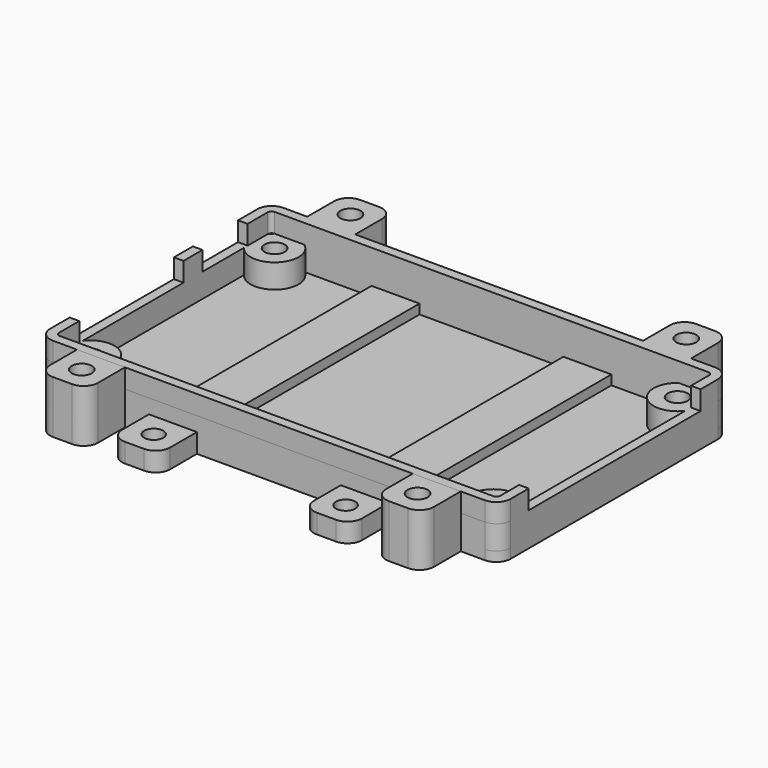
from build123d import *

# Parameters (mm, degrees)
EXTRUDE001_DEPTH  = 2
CYLINDER001_R     = 2.1
CYLINDER001_DEPTH = 11
BOX001_W          = 10
BOX001_H          = 10
BOX001_DEPTH      = 11
FILLET001_R       = 3
CYLINDER_R        = 2
CYLINDER_DEPTH    = 10
BOX_W             = 10
BOX_H             = 80
BOX_DEPTH         = 4
FILLET_R          = 3
SKETCH003_W       = 9.77459
SKETCH003_H       = 44.778202
SKETCH003_W_2     = 16.775318
SKETCH003_H_2     = 11.763574
SKETCH003_W_3     = 22.095015
SKETCH003_H_3     = 27.160165
EXTRUDE003_DEPTH  = 10
EXTRUDE002_DEPTH  = 4
SKETCH_R          = 2.1
EXTRUDE_DEPTH     = 5


with BuildPart() as extrude001:
    # Sketch001 → Extrude001 (new body)
    with BuildSketch(Plane.XY):
        with BuildLine():
            Line((-48, 26.999999), (-48, -26.999999))
            ThreePointArc((-48, -26.999999), (-47.12132, -29.12132), (-44.999999, -30))
            Line((-44.999999, -30), (45.000001, -30))
            ThreePointArc((45.000001, -30), (47.121321, -29.12132), (48, -27))
            Line((48, 27), (48, -27))
            ThreePointArc((48, 27), (47.121321, 29.12132), (45.000001, 30))
            Line((45.000001, 30), (-44.999999, 30))
            ThreePointArc((-44.999999, 30), (-47.12132, 29.12132), (-48, 26.999999))
        make_face()
    extrude(amount=EXTRUDE001_DEPTH)


with BuildPart() as insert_hole:
    # Cylinder001 → Cylinder001 (new body)
    with BuildSketch(Plane.XY):
        Circle(CYLINDER001_R)
    extrude(amount=CYLINDER001_DEPTH)


with BuildPart() as compound:
    # Box001 → Box001 (new body)
    with BuildSketch(Plane(origin=(-5, -5, 0), x_dir=(1, 0, 0), z_dir=(0, 0, 1))):
        with Locations((5, 5)):
            Rectangle(BOX001_W, BOX001_H)
    extrude(amount=BOX001_DEPTH)

    # Fillet001
    fillet001_edges = [compound.edges().sort_by_distance(p)[0] for p in [
        (-5, 5, 5.5),
        (5, 5, 5.5),
    ]]
    fillet(fillet001_edges, radius=FILLET001_R)

    # Cut001: cut insert hole
    add(insert_hole.part, mode=Mode.SUBTRACT)


with BuildPart() as compound_1:
    # Compound placement: moved
    add(compound.part.moved(Location((0, 35, 0))))


with BuildPart() as fusion001:
    # Part__Mirroring002: instance of Compound
    add(compound_1.part.mirror(Plane(origin=(0, 0, 0), x_dir=(1, 0, 0), z_dir=(0, 1, 0))))

    # Fusion001: union Compound
    add(compound_1.part)


with BuildPart() as fusion001_1:
    # Fusion001 placement: moved
    add(fusion001.part.moved(Location((35, 0, 0))))


with BuildPart() as part_mirroring003:
    # Part__Mirroring003: instance of Fusion001
    add(fusion001_1.part.mirror(Plane(origin=(0, 0, 0), x_dir=(0, -1, 0), z_dir=(1, 0, 0))))


with BuildPart() as insert_hole_fusion:
    # Fusion002 base: copy of Fusion001
    add(fusion001_1.part)

    # Fusion002: union Part__Mirroring003
    add(part_mirroring003.part)


with BuildPart() as bolt_hole:
    # Cylinder → Cylinder (new body)
    with BuildSketch(Plane(origin=(0, 35, 0), x_dir=(1, 0, 0), z_dir=(0, 0, 1))):
        Circle(CYLINDER_R)
    extrude(amount=CYLINDER_DEPTH)


with BuildPart() as hole_fusion:
    # Part__Mirroring: instance of bolt hole
    add(bolt_hole.part.mirror(Plane(origin=(0, 0, 0), x_dir=(1, 0, 0), z_dir=(0, 1, 0))))

    # Fusion: union bolt hole
    add(bolt_hole.part)


with BuildPart() as bolt_plate_cut:
    # Box → Box (new body)
    with BuildSketch(Plane(origin=(-5, -40, 0), x_dir=(1, 0, 0), z_dir=(0, 0, 1))):
        with Locations((5, 40)):
            Rectangle(BOX_W, BOX_H)
    extrude(amount=BOX_DEPTH)

    # Fillet
    fillet_edges = [bolt_plate_cut.edges().sort_by_distance(p)[0] for p in [
        (-5, -40, 2),
        (-5, 40, 2),
        (5, -40, 2),
        (5, 40, 2),
    ]]
    fillet(fillet_edges, radius=FILLET_R)

    # Cut: cut hole fusion
    add(hole_fusion.part, mode=Mode.SUBTRACT)


with BuildPart() as bolt_plate_cut_1:
    # Cut placement: moved
    add(bolt_plate_cut.part.moved(Location((20, 0, 0))))


with BuildPart() as part_mirroring001:
    # Part__Mirroring001: instance of bolt plate cut
    add(bolt_plate_cut_1.part.mirror(Plane(origin=(0, 0, 0), x_dir=(0, -1, 0), z_dir=(1, 0, 0))))


with BuildPart() as obj1:
    # Fusion003 base: copy of bolt plate cut
    add(bolt_plate_cut_1.part)

    # Fusion003: union Part__Mirroring001
    add(part_mirroring001.part)


with BuildPart() as holes_extrude003:
    # Sketch003 → Extrude003 (new body)
    with BuildSketch(Plane.XY):
        with Locations((46.967045, 0.099766)):
            Rectangle(SKETCH003_W, SKETCH003_H)
        with Locations((-43.662671, 16.078721)):
            Rectangle(SKETCH003_W_2, SKETCH003_H_2)
        with Locations((-42.010708, -8.32763)):
            Rectangle(SKETCH003_W_3, SKETCH003_H_3)
    extrude(amount=EXTRUDE003_DEPTH)


with BuildPart() as holes_extrude003_1:
    # Extrude003 placement: moved
    add(holes_extrude003.part.moved(Location((0, 0, 7))))


with BuildPart() as cut002:
    # Sketch002 → Extrude002 (new body)
    with BuildSketch(Plane.XY):
        with BuildLine():
            Line((-47.999997, 26.99601), (-48, -27))
            ThreePointArc((-48, -27), (-47.116017, -29.126611), (-44.985018, -29.999963))
            Line((-44.985018, -29.999963), (45.000001, -30))
            ThreePointArc((45.000001, -30), (47.121321, -29.12132), (48, -27))
            Line((48, 27), (48, -27))
            ThreePointArc((48, 27), (47.121321, 29.12132), (45.000001, 30))
            Line((45.000001, 30), (-45, 30))
            ThreePointArc((-45, 30), (-47.122731, 29.119909), (-47.999997, 26.99601))
        make_face()
        with BuildLine():
            Line((-45.2, -28), (45.2, -28))
            ThreePointArc((45.2, -28), (45.765689, -27.765682), (46, -27.199989))
            Line((46, -27.199989), (46, 27.2))
            ThreePointArc((46, 27.2), (45.765685, 27.765685), (45.2, 28))
            Line((45.2, 28), (-45.2, 28))
            ThreePointArc((-45.2, 28), (-45.765685, 27.765685), (-46, 27.2))
            Line((-46, 27.2), (-46, -27.2))
            ThreePointArc((-46, -27.2), (-45.765685, -27.765685), (-45.2, -28))
        make_face(mode=Mode.SUBTRACT)
    extrude(amount=EXTRUDE002_DEPTH)


with BuildPart() as cut002_1:
    # Extrude002 placement: moved
    add(cut002.part.moved(Location((0, 0, 7))))

    # Cut002: cut holes Extrude003
    add(holes_extrude003_1.part, mode=Mode.SUBTRACT)


with BuildPart() as bottom_part:
    # Sketch → Extrude (new body)
    with BuildSketch(Plane.XY):
        with BuildLine():
            Line((-45, 30), (45, 30))
            ThreePointArc((48, 27), (47.12132, 29.12132), (45, 30))
            Line((48, 27), (48, -27))
            ThreePointArc((45, -30), (47.12132, -29.12132), (48, -27))
            Line((45, -30), (-45, -30))
            ThreePointArc((-48, -27), (-47.12132, -29.12132), (-45, -30))
            Line((-48, -27), (-48, 27))
            ThreePointArc((-45, 30), (-47.12132, 29.12132), (-48, 27))
        make_face()
        with Locations((-42, 24)):
            Circle(SKETCH_R, mode=Mode.SUBTRACT)
        with Locations((42, 24)):
            Circle(SKETCH_R, mode=Mode.SUBTRACT)
        with Locations((42, -24)):
            Circle(SKETCH_R, mode=Mode.SUBTRACT)
        with Locations((-42, -24)):
            Circle(SKETCH_R, mode=Mode.SUBTRACT)
        with BuildLine():
            ThreePointArc((-46, 21), (-38.464466, 20.464466), (-39, 28))
            Line((-39, 28), (39, 28))
            ThreePointArc((39, 28), (38.464466, 20.464466), (46, 21))
            Line((46, 21), (46, -21))
            ThreePointArc((46, -21), (38.464466, -20.464466), (39, -28))
            Line((39, -28), (-39, -28))
            ThreePointArc((-39, -28), (-38.464466, -20.464466), (-46, -21))
            Line((-46, -21), (-46, 21))
        make_face(mode=Mode.SUBTRACT)
    extrude(amount=EXTRUDE_DEPTH)


with BuildPart() as bottom_part_1:
    # Extrude placement: moved
    add(bottom_part.part.moved(Location((0, 0, 2))))

    # Fusion004: union Extrude001, insert hole fusion, obj1, Cut002
    add(extrude001.part)
    add(insert_hole_fusion.part)
    add(obj1.part)
    add(cut002_1.part)


solid = bottom_part_1.part
